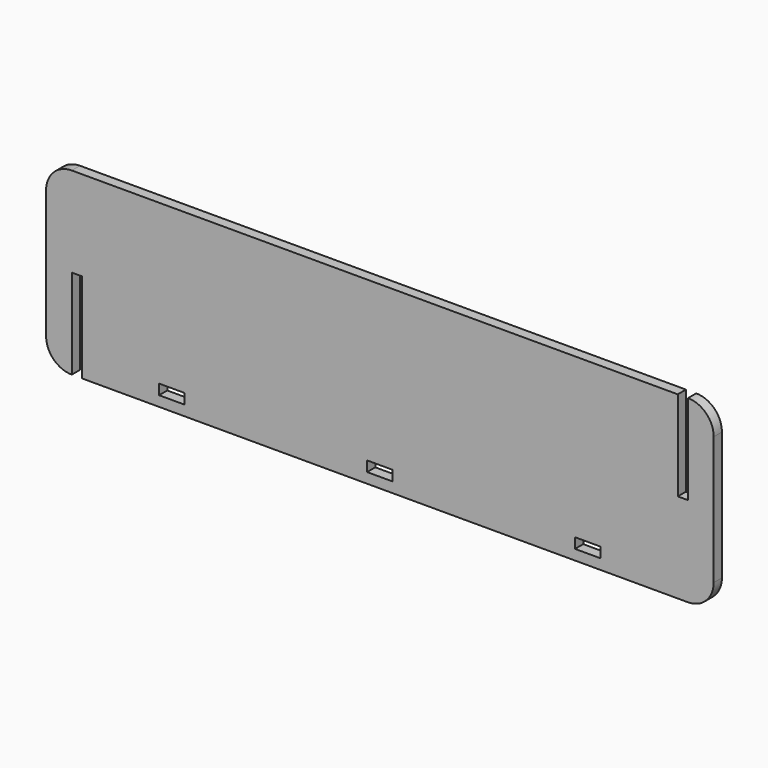
from build123d import *

# Parameters (mm, degrees)
F0_W     = 10
F0_H     = 4
F1_DEPTH = 4


with BuildPart() as f1:
    # F0 (on Front) → F1 (new body)
    with BuildSketch(Plane.XZ):
        with BuildLine():
            Line((116, 35), (-120, 35))
            ThreePointArc((-120, 35), (-127.071068, 32.071068), (-130, 25))
            Line((-130, 25), (-130, -25))
            ThreePointArc((-130, -25), (-127.071068, -32.071068), (-120, -35))
            Line((-120, -35), (-120, 0))
            Line((-120, 0), (-116, 0))
            Line((-116, 0), (-116, -35))
            Line((-116, -35), (120, -35))
            ThreePointArc((120, -35), (127.071068, -32.071068), (130, -25))
            Line((130, -25), (130, 25))
            ThreePointArc((130, 25), (127.071068, 32.071068), (120, 35))
            Line((120, 35), (120, 0))
            Line((120, 0), (116, 0))
            Line((116, 0), (116, 35))
        make_face()
        with Locations((-81, -29)):
            Rectangle(F0_W, F0_H, mode=Mode.SUBTRACT)
        with Locations((0, -29)):
            Rectangle(F0_W, F0_H, mode=Mode.SUBTRACT)
        with Locations((81, -29)):
            Rectangle(F0_W, F0_H, mode=Mode.SUBTRACT)
    extrude(amount=F1_DEPTH)


solid = f1.part
